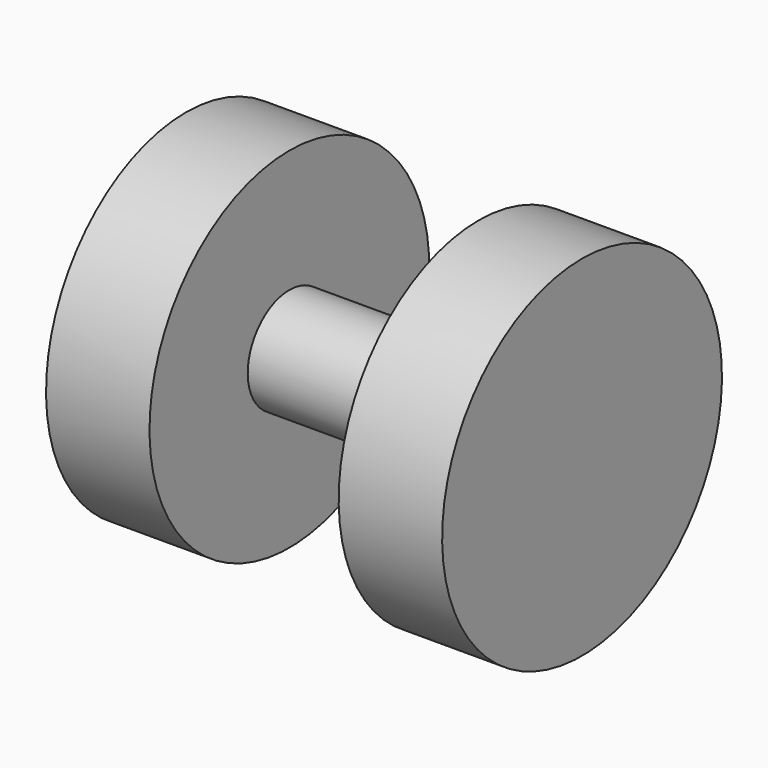
from build123d import *

# Parameters (mm, degrees)
F0_W = 20.1257187873
F0_H = 11.089682579
F2_W = 22.0150705427
F2_H = 37.2120440006


with BuildPart() as f1:
    # F0 (on Front) → F1 (revolve)
    with BuildSketch(Plane.XZ):
        with Locations((-10.0628593937, 5.5448412895)):
            Rectangle(F0_W, F0_H)
        with Locations((10.0628593937, 5.5448412895)):
            Rectangle(F0_W, F0_H)
    revolve(axis=Axis((-10.0628593937, 0, 0), (-1, 0, 0)))

    # F2 (on Front) → F3 (revolve)
    with BuildSketch(Plane.XZ):
        with Locations((-31.1332540587, 18.6060220003)):
            Rectangle(F2_W, F2_H)
        with Locations((31.1332540587, 18.6060220003)):
            Rectangle(F2_W, F2_H)
    revolve(axis=Axis((-31.1332540587, 0, 0), (-1, 0, 0)))


solid = f1.part
